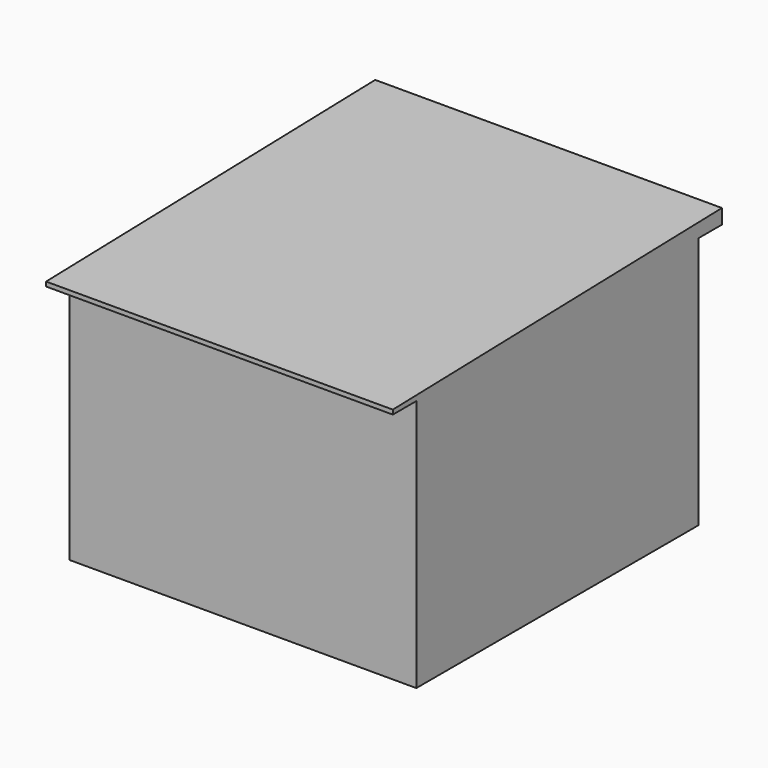
from build123d import *

# Parameters (mm, degrees)
F0_W     = 15.24
F0_H     = 15.24
F0_H_2   = 274.32
F1_DEPTH = 203.2
F2_W     = 299.72
F2_H     = 304.8
F3_DEPTH = 15.24
F4_W     = 299.72
F4_H     = 355.6
F5_DEPTH = 12.7
F6_W     = 76.2
F6_H     = 152.4
F7_DEPTH = 25.4
F9_DEPTH = 373.126


with BuildPart() as f1:
    # F0 (on Top) → F1 (new body)
    with BuildSketch(Plane.XY):
        Polygon((-33.02, 137.16), (-33.02, 152.4), (-149.86, 152.4), (-149.86, -152.4), (-33.02, -152.4), (-33.02, -137.16), (-134.62, -137.16), (-134.62, 137.16), align=None)
        with Locations((-25.4, 144.78)):
            Rectangle(F0_W, F0_H)
        with Locations((-25.4, -144.78)):
            Rectangle(F0_W, F0_H)
        with Locations((-25.4, 0)):
            Rectangle(F0_W, F0_H_2)
        Polygon((149.86, -152.4), (149.86, 152.4), (-17.78, 152.4), (-17.78, 137.16), (134.62, 137.16), (134.62, -137.16), (-17.78, -137.16), (-17.78, -152.4), align=None)
    extrude(amount=F1_DEPTH)

    # F2 (on face) → F3 (join)
    with BuildSketch(Plane(origin=(0, 0, 0), x_dir=(1, 0, 0), z_dir=(0, 0, -1))):
        Rectangle(F2_W, F2_H)
    extrude(amount=F3_DEPTH)

    # F4 (on face) → F5 (join)
    with BuildSketch(Plane.XY.offset(203.2)):
        Rectangle(F4_W, F4_H)
    extrude(amount=F5_DEPTH)

    # F6 (on face) → F7 (cut)
    with BuildSketch(Plane(origin=(0, 152.4, 0), x_dir=(-1, 0, 0), z_dir=(0, 1, 0))):
        with Locations((83.82, 76.2)):
            Rectangle(F6_W, F6_H)
    extrude(amount=-F7_DEPTH, mode=Mode.SUBTRACT)

    # F8 (on face) → F9 (cut)
    with BuildSketch(Plane.YZ.offset(149.86)):
        Polygon((-177.8, 207.01), (177.8, 215.9), (-177.8, 215.9), align=None)
    extrude(amount=-F9_DEPTH, mode=Mode.SUBTRACT)


solid = f1.part
